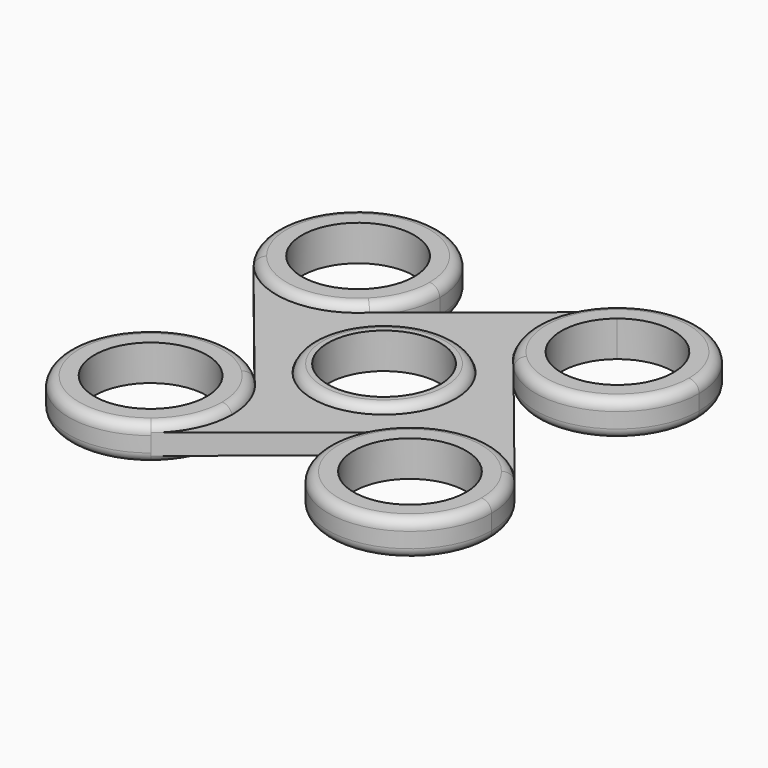
from build123d import *

# Parameters (mm, degrees)
F0_R     = 14
F1_DEPTH = 2
F2_DEPTH = 3.5
F0_R_2   = 11
F3_DEPTH = 3.5
F4_R     = 2
F4_2_R   = 2


with BuildPart() as f1:
    # F0 (on Top) → F1 (new body, symmetric)
    with BuildSketch(Plane.XY):
        with BuildLine():
            ThreePointArc((11.313708, -11.313708), (-0.849443, -15.977436), (-12.449531, -10.050333))
            Line((-12.449531, -10.050333), (11.313708, -39.486292))
            ThreePointArc((11.313708, -39.486292), (14.782073, -44.677065), (16, -50.8))
            ThreePointArc((16, -50.8), (14.436158, -57.699083), (10.050333, -63.249531))
            Line((10.050333, -63.249531), (39.486292, -39.486292))
            ThreePointArc((39.486292, -39.486292), (51.649443, -34.822564), (63.249531, -40.749667))
            Line((63.249531, -40.749667), (39.486292, -11.313708))
            ThreePointArc((39.486292, -11.313708), (34.822564, 0.849443), (40.749667, 12.449531))
            Line((40.749667, 12.449531), (11.313708, -11.313708))
        make_face()
        with Locations((25.4, -25.4)):
            Circle(F0_R, mode=Mode.SUBTRACT)
    extrude(amount=F1_DEPTH, both=True)


with BuildPart() as f2:
    # F0 (on Top) → F2 (new body, symmetric)
    with BuildSketch(Plane.XY):
        with BuildLine():
            ThreePointArc((16, -50.8), (14.782073, -44.677065), (11.313708, -39.486292))
            ThreePointArc((11.313708, -39.486292), (-15.977436, -49.950557), (10.050333, -63.249531))
            ThreePointArc((10.050333, -63.249531), (14.436158, -57.699083), (16, -50.8))
        make_face()
        with BuildLine():
            ThreePointArc((11, -50.8), (9.924859, -55.543119), (6.909604, -59.359052))
            ThreePointArc((6.909604, -59.359052), (-9.924859, -46.056881), (11, -50.8))
        make_face(mode=Mode.SUBTRACT)
        with BuildLine():
            ThreePointArc((63.249531, -40.749667), (51.649443, -34.822564), (39.486292, -39.486292))
            ThreePointArc((39.486292, -39.486292), (44.677065, -65.582073), (66.8, -50.8))
            ThreePointArc((66.8, -50.8), (65.886293, -45.470483), (63.249531, -40.749667))
        make_face()
        with BuildLine():
            ThreePointArc((61.8, -50.8), (40.428173, -54.464043), (59.359052, -43.890396))
            ThreePointArc((59.359052, -43.890396), (61.171827, -47.135957), (61.8, -50.8))
        make_face(mode=Mode.SUBTRACT)
        with BuildLine():
            ThreePointArc((66.8, 0), (57.699083, 14.436158), (40.749667, 12.449531))
            ThreePointArc((40.749667, 12.449531), (34.822564, 0.849443), (39.486292, -11.313708))
            ThreePointArc((39.486292, -11.313708), (56.922935, -14.782073), (66.8, 0))
        make_face()
        with BuildLine():
            ThreePointArc((61.8, 0), (46.056881, -9.924859), (43.890396, 8.559052))
            ThreePointArc((43.890396, 8.559052), (55.543119, 9.924859), (61.8, 0))
        make_face(mode=Mode.SUBTRACT)
        with BuildLine():
            ThreePointArc((16, 0), (-5.329517, 15.086293), (-12.449531, -10.050333))
            ThreePointArc((-12.449531, -10.050333), (-0.849443, -15.977436), (11.313708, -11.313708))
            ThreePointArc((11.313708, -11.313708), (14.782073, -6.122935), (16, 0))
        make_face()
        with BuildLine():
            ThreePointArc((-8.559052, -6.909604), (-3.664043, 10.371827), (11, 0))
            ThreePointArc((11, 0), (3.664043, -10.371827), (-8.559052, -6.909604))
        make_face(mode=Mode.SUBTRACT)
    extrude(amount=F2_DEPTH, both=True)

    # F4
    f4_edges = [f2.edges().sort_by_distance(p)[0] for p in [
        (-15.977436, -49.950557, 3.5),
        (44.677065, -65.582073, 3.5),
        (34.822564, 0.849443, 3.5),
        (-5.329517, 15.086293, 3.5),
        (-15.977436, -49.950557, -3.5),
        (44.677065, -65.582073, -3.5),
        (-5.329517, 15.086293, -3.5),
        (34.822564, 0.849443, -3.5),
    ]]
    fillet(f4_edges, radius=F4_R)


with BuildPart() as f3:
    # F0 (on Top) → F3 (new body, symmetric)
    with BuildSketch(Plane.XY):
        with Locations((25.4, -25.4)):
            Circle(F0_R)
        with Locations((25.4, -25.4)):
            Circle(F0_R_2, mode=Mode.SUBTRACT)
    extrude(amount=F3_DEPTH, both=True)

    # F4#2
    f4_2_edges = [f3.edges().sort_by_distance(p)[0] for p in [
        (11.4, -25.4, 3.5),
        (11.4, -25.4, -3.5),
    ]]
    fillet(f4_2_edges, radius=F4_2_R)


solid = Compound([f1.part, f2.part, f3.part])
